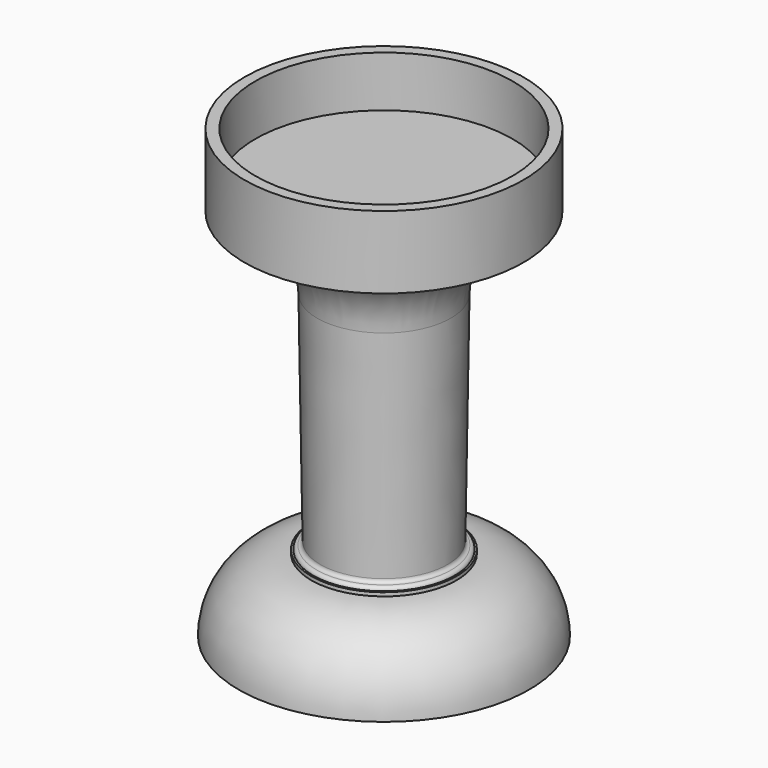
from build123d import *

# Parameters (mm, degrees)
F2_R     = 8.9916
F3_DEPTH = 3.556
F5_DEPTH = 1.778


with BuildPart() as f1:
    # F0 (on Front) → F1 (revolve)
    with BuildSketch(Plane.XZ):
        with BuildLine():
            Line((-10.16, 0), (0, 0))
            Line((0, 0), (0, 31.242))
            Line((0, 31.242), (-9.7536, 31.242))
            Line((-9.7536, 31.242), (-9.7536, 26.162))
            ThreePointArc((-9.7536, 26.162), (-6.161498, 24.674102), (-4.6736, 21.082))
            Line((-4.6736, 21.082), (-4.445, 5.842))
            ThreePointArc((-4.445, 5.842), (-4.519395, 5.662395), (-4.699, 5.588))
            ThreePointArc((-4.699, 5.588), (-4.878605, 5.513605), (-4.953, 5.334))
            Line((-4.953, 5.334), (-5.08, 5.334))
            Line((-5.08, 5.334), (-5.08, 5.08))
            ThreePointArc((-5.08, 5.08), (-8.672102, 3.592102), (-10.16, 0))
        make_face()
    revolve(axis=Axis((0, 0, 15.621), (0, 0, -1)))

    # F2 (on face) → F3 (cut)
    with BuildSketch(Plane.XY.offset(31.242)):
        Circle(F2_R)
    extrude(amount=-F3_DEPTH, mode=Mode.SUBTRACT)

    # F4 (on face) → F5 (cut)
    with BuildSketch(Plane.XY.offset(31.242)):
        Polygon((-0.508, -0.508), (-0.508, 0), (-0.508, 0.508), (-8.064261, 0.508), (-8.064261, -0.508), align=None)
        Polygon((-0.508, 6.998243), (-0.508, 0.508), (0, 0.508), (0.508, 0.508), (0.508, 6.998243), align=None)
        Polygon((0, -0.508), (-0.508, -0.508), (-0.508, -7.178504), (0.508, -7.178504), (0.508, -0.508), align=None)
        Polygon((0.508, 0.508), (0.508, 0), (0.508, -0.508), (7.389117, -0.508), (7.389117, 0.508), align=None)
    extrude(amount=-F5_DEPTH, mode=Mode.SUBTRACT)


solid = f1.part
